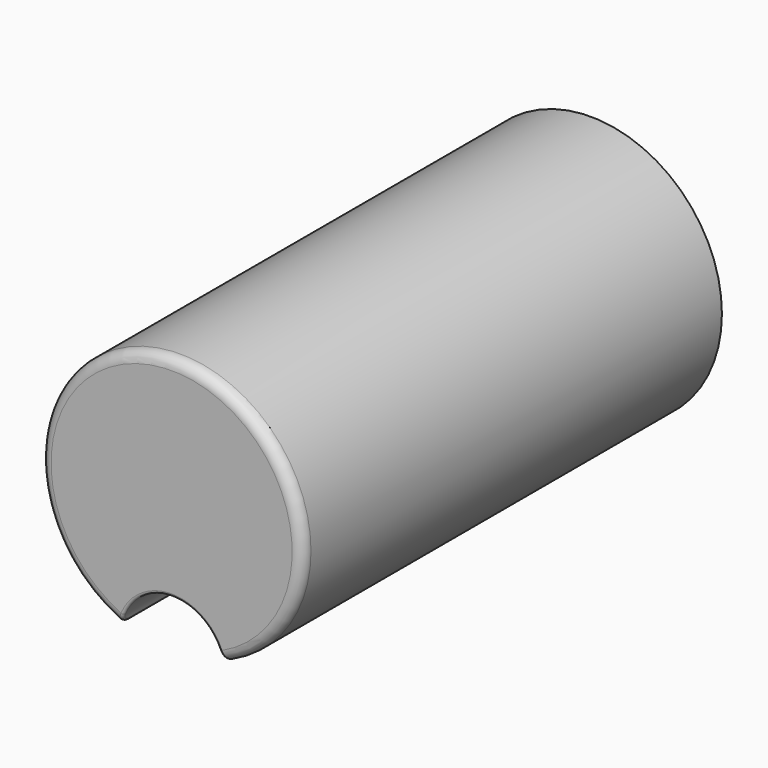
from build123d import *

# Parameters (mm, degrees)
F0_R     = 63.5
F1_DEPTH = 254
F3_DEPTH = 50.8
F4_R     = 5.08
F5_SIZE  = 5.08
F6_R     = 1.27


with BuildPart() as f1:
    # F0 (on Front) → F1 (new body)
    with BuildSketch(Plane.XZ):
        Circle(F0_R)
    extrude(amount=F1_DEPTH)

    # F2 (on face) → F3 (cut)
    with BuildSketch(Plane.XZ.offset(254)):
        with BuildLine():
            ThreePointArc((-24.8868157867, -58.42), (0, -63.5), (24.8868157867, -58.42))
            ThreePointArc((24.8868157867, -58.42), (0, -38.1), (-24.8868157867, -58.42))
        make_face()
    extrude(amount=-F3_DEPTH, mode=Mode.SUBTRACT)

    # F4
    f4_edges = [f1.edges().sort_by_distance(p)[0] for p in [
        (-35.013834, -254, 52.974347),
    ]]
    fillet(f4_edges, radius=F4_R)

    # F5
    f5_edges = [f1.edges().sort_by_distance(p)[0] for p in [
        (0, -203.2, -38.1),
    ]]
    chamfer(f5_edges, length=F5_SIZE)

    # F6
    f6_edges = [f1.edges().sort_by_distance(p)[0] for p in [
        (-24.886816, -228.6, -58.42),
        (0, -203.2, -63.5),
        (22.488903, -205.742402, -59.384335),
        (-22.488903, -205.742402, -59.384335),
        (0, -203.2, -43.18),
        (0, -208.28, -38.1),
    ]]
    fillet(f6_edges, radius=F6_R)


solid = f1.part
